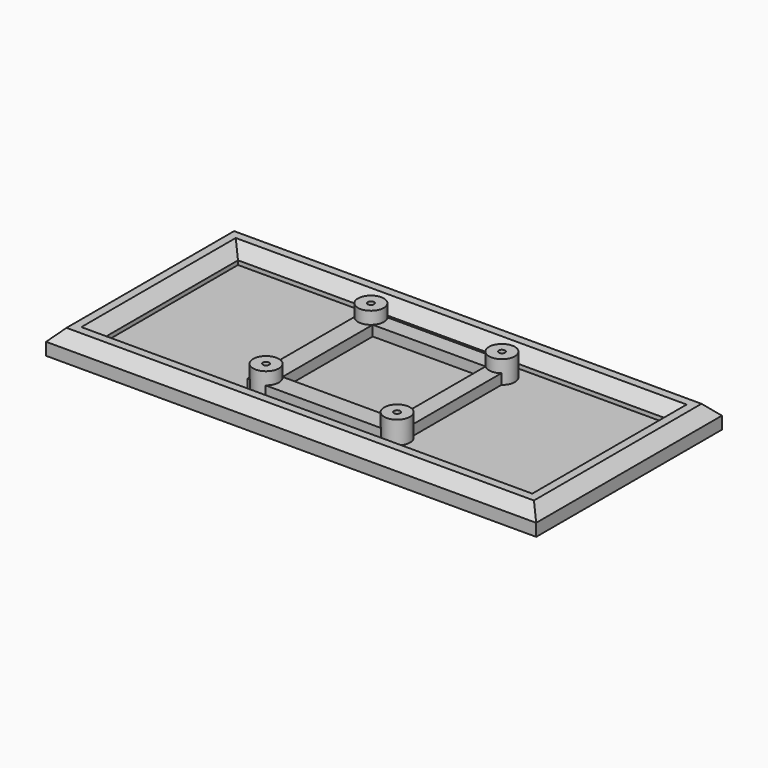
from build123d import *

# Parameters (mm, degrees)
F0_W     = 89
F0_H     = 45
F0_R     = 2.5
F0_W_2   = 3
F1_DEPTH = 1.6
F2_DEPTH = 6
F3_W     = 6
F3_H     = 6
F3_W_2   = 83
F3_H_2   = 33
F4_DEPTH = 3
F5_W     = 28.891159
F5_H     = 28.9066
F5_W_2   = 21.864466
F5_H_2   = 21.864466
F6_DEPTH = 2
F7_R     = 0.6
F8_DEPTH = 6
F9_SIZE  = 2.2


with BuildPart() as f1:
    # F0 (on Top) → F1 (new body)
    with BuildSketch(Plane.XY):
        Rectangle(F0_W, F0_H)
        with Locations((-12.7, -12.7)):
            Circle(F0_R, mode=Mode.SUBTRACT)
        with Locations((12.7, -12.7)):
            Circle(F0_R, mode=Mode.SUBTRACT)
        with Locations((-12.7, 12.7)):
            Circle(F0_R, mode=Mode.SUBTRACT)
        with Locations((12.7, 12.7)):
            Circle(F0_R, mode=Mode.SUBTRACT)
        with Locations((46, 0)):
            Rectangle(F0_W_2, F0_H)
        with Locations((-46, 0)):
            Rectangle(F0_W_2, F0_H)
        with Locations((-12.7, 12.7)):
            Circle(F0_R)
        with Locations((12.7, 12.7)):
            Circle(F0_R)
        with Locations((12.7, -12.7)):
            Circle(F0_R)
        with Locations((-12.7, -12.7)):
            Circle(F0_R)
    extrude(amount=F1_DEPTH)

    # F0 (on Top) → F2 (join)
    with BuildSketch(Plane.XY):
        with Locations((-12.7, -12.7)):
            Circle(F0_R)
        with Locations((-12.7, 12.7)):
            Circle(F0_R)
        with Locations((12.7, -12.7)):
            Circle(F0_R)
        with Locations((12.7, 12.7)):
            Circle(F0_R)
    extrude(amount=F2_DEPTH)

    # F3 (on face) → F4 (join)
    with BuildSketch(Plane.XY.offset(1.6)):
        with Locations((-44.5, 19.5)):
            Rectangle(F3_W, F3_H)
        with Locations((0, 19.5)):
            Rectangle(F3_W_2, F3_H)
        with Locations((-44.5, 0)):
            Rectangle(F3_W, F3_H_2)
        with Locations((44.5, 19.5)):
            Rectangle(F3_W, F3_H)
        with Locations((-44.5, -19.5)):
            Rectangle(F3_W, F3_H)
        with Locations((44.5, 0)):
            Rectangle(F3_W, F3_H_2)
        with Locations((0, -19.5)):
            Rectangle(F3_W_2, F3_H)
        with Locations((44.5, -19.5)):
            Rectangle(F3_W, F3_H)
    extrude(amount=F4_DEPTH)

    # F5 (on face) → F6 (join)
    with BuildSketch(Plane.XY.offset(1.6)):
        with Locations((-0.254421, -0.2533)):
            Rectangle(F5_W, F5_H)
        Rectangle(F5_W_2, F5_H_2, mode=Mode.SUBTRACT)
    extrude(amount=F6_DEPTH)

    # F7 (on face) → F8 (cut)
    with BuildSketch(Plane.XY.offset(6)):
        with Locations((-12.7, 12.7)):
            Circle(F7_R)
        with Locations((12.7, 12.7)):
            Circle(F7_R)
        with Locations((12.7, -12.7)):
            Circle(F7_R)
        with Locations((-12.7, -12.7)):
            Circle(F7_R)
    extrude(amount=-F8_DEPTH, mode=Mode.SUBTRACT)

    # F9
    f9_edges = [f1.edges().sort_by_distance(p)[0] for p in [
        (0, 16.5, 4.6),
        (-41.5, 0, 4.6),
        (-47.5, 0, 4.6),
        (0, 22.5, 4.6),
        (0, -22.5, 4.6),
        (47.5, 0, 4.6),
        (41.5, 0, 4.6),
        (0, -16.5, 4.6),
    ]]
    chamfer(f9_edges, length=F9_SIZE)


solid = f1.part
